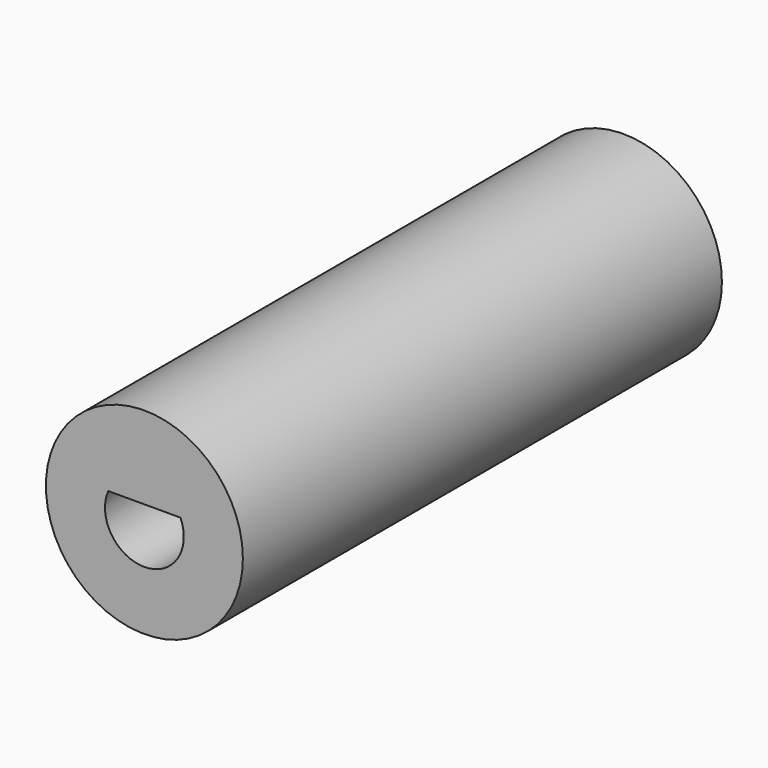
from build123d import *

# Parameters (mm, degrees)
F0_R     = 6.25
F1_DEPTH = 38
F3_DEPTH = 15
F5_DEPTH = 23
F6_R     = 5.5
F7_DEPTH = 10
F7_TAPER = 23


with BuildPart() as f1:
    # F0 (on Front) → F1 (new body)
    with BuildSketch(Plane.XZ):
        Circle(F0_R)
    extrude(amount=F1_DEPTH)

    # F2 (on face) → F3 (cut)
    with BuildSketch(Plane.XZ.offset(38)):
        with BuildLine():
            Line((0, 1), (-2.2912878475, 1))
            ThreePointArc((-2.2912878475, 1), (0, -2.5), (2.2912878475, 1))
            Line((2.2912878475, 1), (0, 1))
        make_face()
    extrude(amount=-F3_DEPTH, mode=Mode.SUBTRACT)

    # F4 (on face) → F5 (cut)
    with BuildSketch(Plane(origin=(0, 0, 0), x_dir=(-1, 0, 0), z_dir=(0, 1, 0))):
        with BuildLine():
            Line((0, 1.5), (-2.3048861143, 1.5))
            ThreePointArc((-2.3048861143, 1.5), (0, -2.75), (2.3048861143, 1.5))
            Line((2.3048861143, 1.5), (0, 1.5))
        make_face()
    extrude(amount=-F5_DEPTH, mode=Mode.SUBTRACT)

    # F6 (on face) → F7 (cut)
    with BuildSketch(Plane(origin=(0, 0, 0), x_dir=(-1, 0, 0), z_dir=(0, 1, 0))):
        Circle(F6_R)
    extrude(amount=-F7_DEPTH, taper=F7_TAPER, mode=Mode.SUBTRACT)


solid = f1.part
